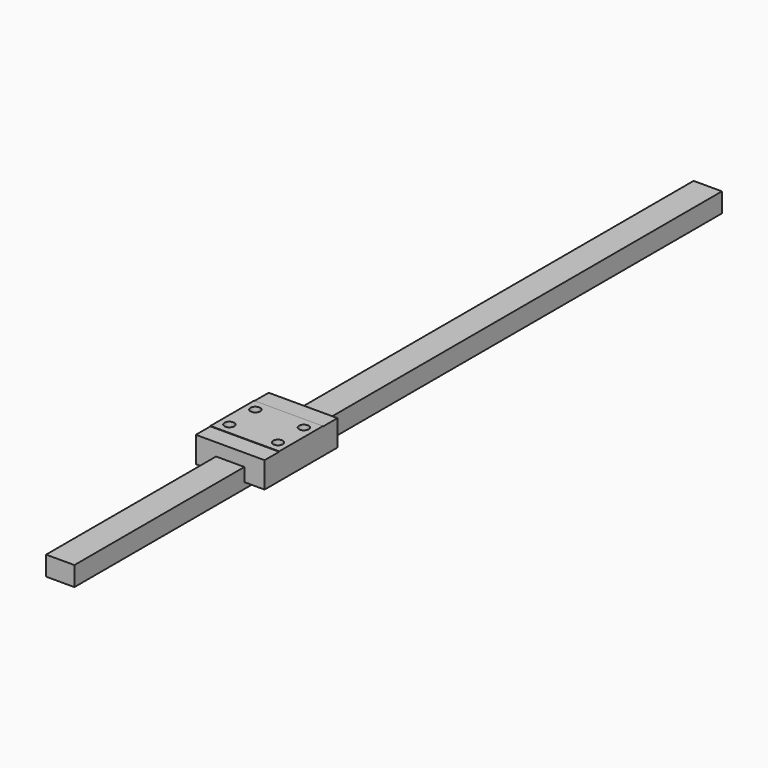
from build123d import *

# Parameters (mm, degrees)
SKETCH026_W     = 7
SKETCH026_H     = 4.8
PAD010_DEPTH    = 200
SKETCH027_W     = 17
SKETCH027_H     = 22.5
PAD011_DEPTH    = 6.5
SKETCH029_W     = 17
SKETCH029_H     = 4.5
POCKET016_DEPTH = 0.1
SKETCH028_R     = 1.2
POCKET017_DEPTH = 2.5


with BuildPart() as part:
    # Sketch026 → Pad010 (new body)
    with BuildSketch(Plane.XZ):
        with Locations((3.5, 2.4)):
            Rectangle(SKETCH026_W, SKETCH026_H)
    extrude(amount=-PAD010_DEPTH)

    # Sketch027 (on Face1 of Pad010) → Pad011 (join)
    with BuildSketch(Plane(origin=(0, 0, 1.5), x_dir=(-1, 0, 0), z_dir=(0, 0, 1))):
        with Locations((-3.5, -63.75)):
            Rectangle(SKETCH027_W, SKETCH027_H)
    extrude(amount=PAD011_DEPTH)

    # Sketch029 (on Face13 of Pad011) → Pocket016 (cut)
    with BuildSketch(Plane(origin=(0, 0, 8), x_dir=(-1, 0, 0), z_dir=(0, 0, 1))):
        with Locations((-3.5, -54.75)):
            Rectangle(SKETCH029_W, SKETCH029_H)
        with Locations((-3.5, -72.75)):
            Rectangle(SKETCH029_W, SKETCH029_H)
    extrude(amount=-POCKET016_DEPTH, mode=Mode.SUBTRACT)

    # Sketch028 (on Face17 of Pocket016) → Pocket017 (cut)
    with BuildSketch(Plane(origin=(0, 0, 8), x_dir=(-1, 0, 0), z_dir=(0, 0, 1))):
        with Locations((-9.5, -59.75)):
            Circle(SKETCH028_R)
        with Locations((2.5, -59.75)):
            Circle(SKETCH028_R)
        with Locations((2.5, -67.75)):
            Circle(SKETCH028_R)
        with Locations((-9.5, -67.75)):
            Circle(SKETCH028_R)
    extrude(amount=-POCKET017_DEPTH, mode=Mode.SUBTRACT)


with BuildPart() as part_1:
    # Body006 placement: moved
    add(part.part.moved(Location((-92.46, -100, -35))))


solid = part_1.part
